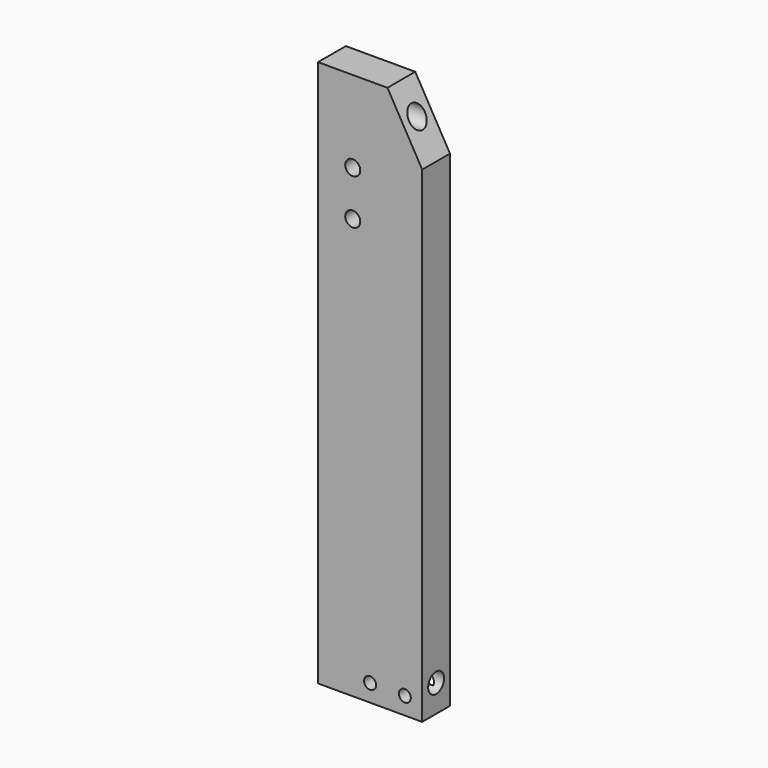
from build123d import *

# Parameters (mm, degrees)
F1_DEPTH       = 25.4
F3_D           = 14.5
F5_D           = 8.8
F5_CBORE_D     = 14.25
F5_CBORE_DEPTH = 8
F7_D           = 11
F7_CBORE_D     = 17.25
F7_CBORE_DEPTH = 10


with BuildPart() as f1:
    # F0 (on Front) → F1 (new body)
    with BuildSketch(Plane.XZ):
        Polygon((0, 400), (0, 0), (76.2, 0), (76.2, 355.6), (50.8, 400), align=None)
    extrude(amount=F1_DEPTH)

    # F3 (through all)
    with Locations(Plane(origin=(0, 0, 0), x_dir=(0, -1, 0), z_dir=(-1, 0, 0))):
        with Locations((12.7, 20), (12.7, 380)):
            Hole(F3_D / 2)

    # F5 (through all)
    with Locations(Plane(origin=(0, 0, 0), x_dir=(-1, 0, 0), z_dir=(0, 1, 0))):
        with Locations((-63.5, 12.7), (-38.1, 12.7)):
            CounterBoreHole(F5_D / 2, F5_CBORE_D / 2, F5_CBORE_DEPTH)

    # F7 (through all)
    with Locations(Plane(origin=(0, 0, 0), x_dir=(-1, 0, 0), z_dir=(0, 1, 0))):
        with Locations((-25.4, 340.31), (-25.4, 307.29)):
            CounterBoreHole(F7_D / 2, F7_CBORE_D / 2, F7_CBORE_DEPTH)


solid = f1.part
